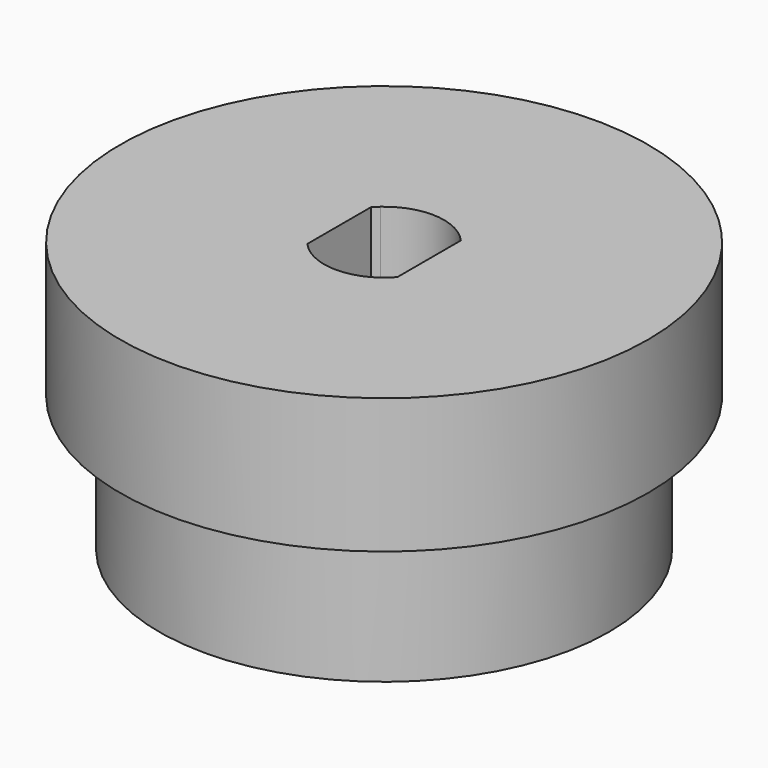
from build123d import *

# Parameters (mm, degrees)
F0_R     = 11.90625
F1_DEPTH = 7.14375
F2_R     = 13.97
F3_DEPTH = 7.14375
F5_DEPTH = 25.4


with BuildPart() as f1:
    # F0 (on Top) → F1 (new body)
    with BuildSketch(Plane.XY):
        Circle(F0_R)
    extrude(amount=-F1_DEPTH)

    # F2 (on Top) → F3 (join)
    with BuildSketch(Plane.XY):
        Circle(F2_R)
    extrude(amount=F3_DEPTH)

    # F4 (on face) → F5 (cut)
    with BuildSketch(Plane.XY.offset(7.14375)):
        with BuildLine():
            ThreePointArc((2.38125, 2.100065), (0.198828, 3.168768), (-2.100065, 2.38125))
            ThreePointArc((-2.100065, 2.38125), (-2.245064, 2.245064), (-2.38125, 2.100065))
            Line((-2.38125, 2.100065), (-2.38125, -2.100065))
            ThreePointArc((-2.38125, -2.100065), (0, -3.175), (2.38125, -2.100065))
            Line((2.38125, -2.100065), (2.38125, 2.100065))
        make_face()
    extrude(amount=-F5_DEPTH, mode=Mode.SUBTRACT)


solid = f1.part
